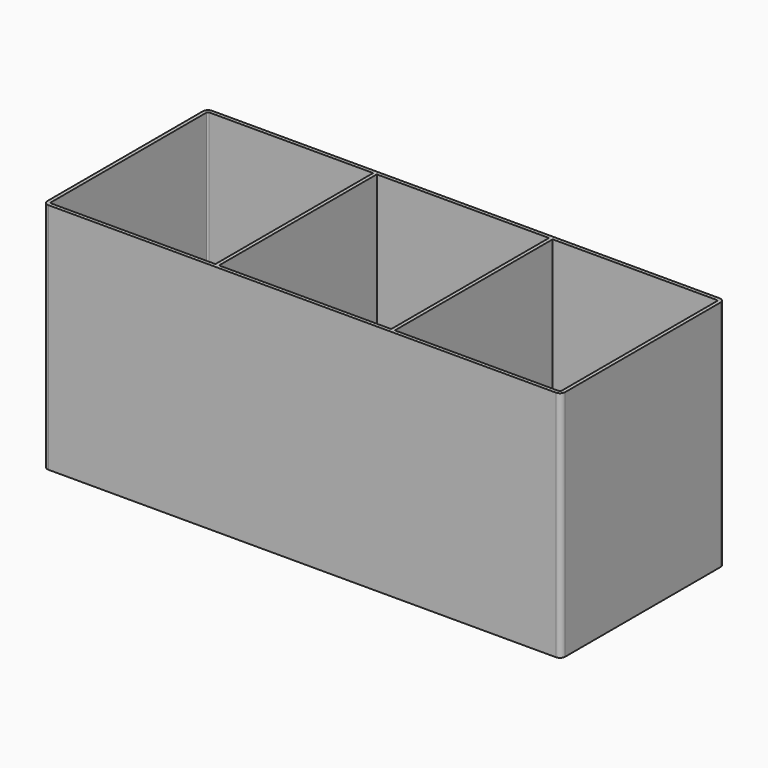
from build123d import *

# Parameters (mm, degrees)
PAD_DEPTH    = 90
THICKNESS_T  = -1.4
SKETCH001_W  = 1.4
SKETCH001_H  = 76.2
PAD001_DEPTH = 88.6


with BuildPart() as part:
    # Sketch → Pad (new body)
    with BuildSketch(Plane.XY):
        with BuildLine():
            Line((-98, 39.5), (98, 39.5))
            ThreePointArc((100, 37.5), (99.414214, 38.914214), (98, 39.5))
            Line((100, 37.5), (100, -37.5))
            ThreePointArc((98, -39.5), (99.414214, -38.914214), (100, -37.5))
            Line((98, -39.5), (-98, -39.5))
            ThreePointArc((-100, -37.5), (-99.414214, -38.914214), (-98, -39.5))
            Line((-100, -37.5), (-100, 37.5))
            ThreePointArc((-98, 39.5), (-99.414214, 38.914214), (-100, 37.5))
        make_face()
    extrude(amount=PAD_DEPTH)

    # Thickness
    thickness_openings = [part.faces().sort_by_distance(p)[0] for p in [
        (0, 0, 90),
    ]]
    offset(amount=THICKNESS_T, openings=thickness_openings)

    # Sketch001 (on Face19 of Thickness) → Pad001 (join)
    with BuildSketch(Plane.XY.offset(1.4)):
        with Locations((-33.966667, 0)):
            Rectangle(SKETCH001_W, SKETCH001_H)
        with Locations((33.969422, 0)):
            Rectangle(SKETCH001_W, SKETCH001_H)
    extrude(amount=PAD001_DEPTH)


solid = part.part
